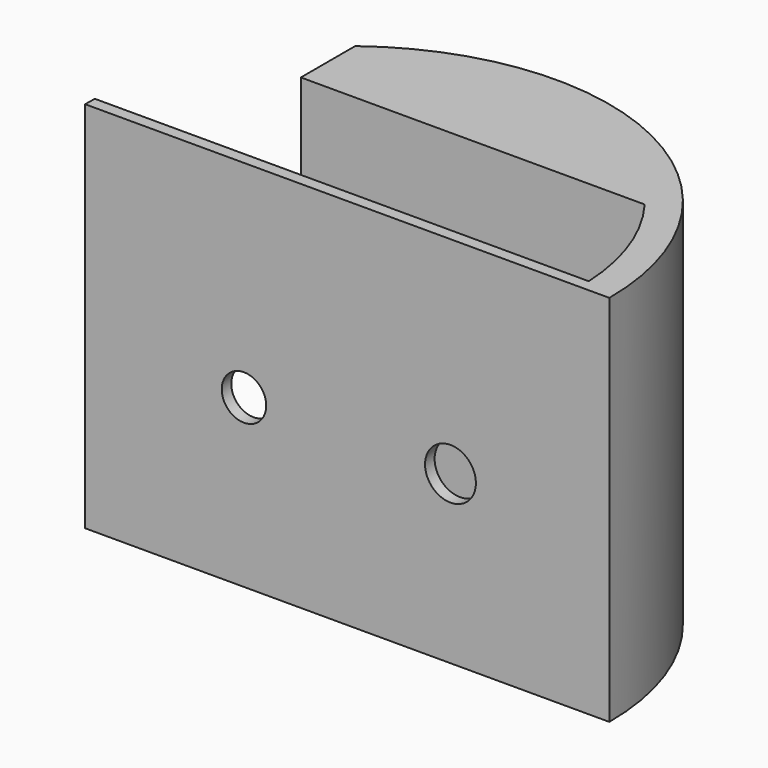
from build123d import *

# Parameters (mm, degrees)
PAD009_DEPTH      = 16
PAD009_DEPTH_BACK = 7.5
POCKET_DEPTH      = 8
HOLE_D            = 3.2
HOLE_DEPTH        = 25
HOLE_CBORE_D      = 6
HOLE_CBORE_DEPTH  = 3.4
SKETCH045_R       = 1.4
POCKET016_DEPTH   = 16


with BuildPart() as part:
    # Sketch → Pad009 (new body, two sides)
    with BuildSketch(Plane.XY) as pad009_sk:
        with BuildLine():
            Line((-16.5, 0), (16.5, 0))
            ThreePointArc((16.5, 0), (7.3229092579, 14.7859730826), (-10, 13.1244047484))
            Line((-10, 8.85), (-10, 13.1244047484))
            Line((11.6433725784, 8.85), (-10, 8.85))
            ThreePointArc((14.6057565706, 0.75), (13.7352355375, 5.0233385044), (11.6433725784, 8.85))
            Line((-16.4829457319, 0.75), (14.6057565706, 0.75))
            ThreePointArc((-16.4829457319, 0.75), (-16.495735882, 0.3750969368), (-16.5, 0))
        make_face()
    extrude(amount=PAD009_DEPTH)
    extrude(pad009_sk.sketch, amount=-PAD009_DEPTH_BACK)

    # Sketch033 (on DatumPlane) → Pocket (cut)
    with BuildSketch(Plane.ZX.offset(12)):
        with BuildLine():
            Line((9.707631, -19.5547157413), (-3.707631, -19.5547157413))
            Line((-3.707631, -19.5547157413), (-3.707631, -6.5))
            ThreePointArc((9.707631, -6.5), (3, 0.207631), (-3.707631, -6.5))
            Line((9.707631, -6.5), (9.707631, -19.5547157413))
        make_face()
    extrude(amount=-POCKET_DEPTH, mode=Mode.SUBTRACT)

    # Hole
    with Locations(Plane(origin=(0, 16.5, 0), x_dir=(1, 0, 0), z_dir=(0, 1, 0))):
        with Locations((6.5, -3)):
            CounterBoreHole(HOLE_D / 2, HOLE_CBORE_D / 2, HOLE_CBORE_DEPTH, depth=HOLE_DEPTH)

    # Sketch045 → Pocket016 (cut)
    with BuildSketch(Plane.XZ):
        with Locations((-6.5, 3)):
            Circle(SKETCH045_R)
    extrude(amount=-POCKET016_DEPTH, mode=Mode.SUBTRACT)


solid = part.part
